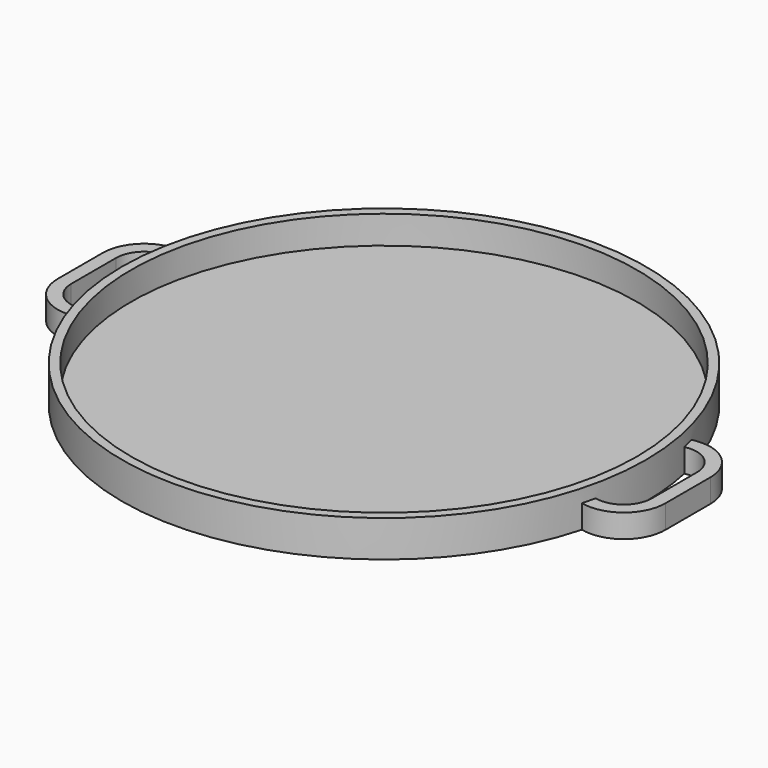
from build123d import *

# Parameters (mm, degrees)
PAD_DEPTH = 2.5


with BuildPart() as part:
    # Sketch → Revolution (revolve)
    with BuildSketch(Plane.XZ):
        Polygon((0, 0), (27.96, 0), (27.96, 3.9), (27, 3.9), (27, 0.9), (0, 0.9), align=None)
    revolve(axis=Axis((0, 0, 0), (0, 0, 1)))

    # Sketch001 → Pad (new body)
    with BuildSketch(Plane.XY):
        with BuildLine():
            ThreePointArc((31, 3), (29.460989, 5.620212), (26.422993, 5.552067))
            ThreePointArc((26.422993, 5.552067), (26.259684, 6.279253), (26.076366, 7.001654))
            ThreePointArc((32.44, 3), (30.363542, 6.758626), (26.076366, 7.001654))
            Line((32.44, 3), (32.44, -3))
            ThreePointArc((26.076366, -7.001654), (30.363542, -6.758626), (32.44, -3))
            ThreePointArc((26.076366, -7.001654), (26.259684, -6.279253), (26.422993, -5.552067))
            ThreePointArc((26.422993, -5.552067), (29.460989, -5.620212), (31, -3))
            Line((31, 3), (31, -3))
        make_face()
        with BuildLine():
            ThreePointArc((-26.422993, 5.552067), (-29.460989, 5.620212), (-31, 3))
            Line((-31, 3), (-31, -3))
            ThreePointArc((-31, -3), (-29.460989, -5.620212), (-26.422993, -5.552067))
            ThreePointArc((-26.422993, -5.552067), (-26.259684, -6.279253), (-26.076366, -7.001654))
            ThreePointArc((-32.44, -3), (-30.363542, -6.758626), (-26.076366, -7.001654))
            Line((-32.44, 3), (-32.44, -3))
            ThreePointArc((-26.076366, 7.001654), (-30.363542, 6.758626), (-32.44, 3))
            ThreePointArc((-26.076366, 7.001654), (-26.259684, 6.279253), (-26.422993, 5.552067))
        make_face()
    extrude(amount=PAD_DEPTH)


solid = part.part
